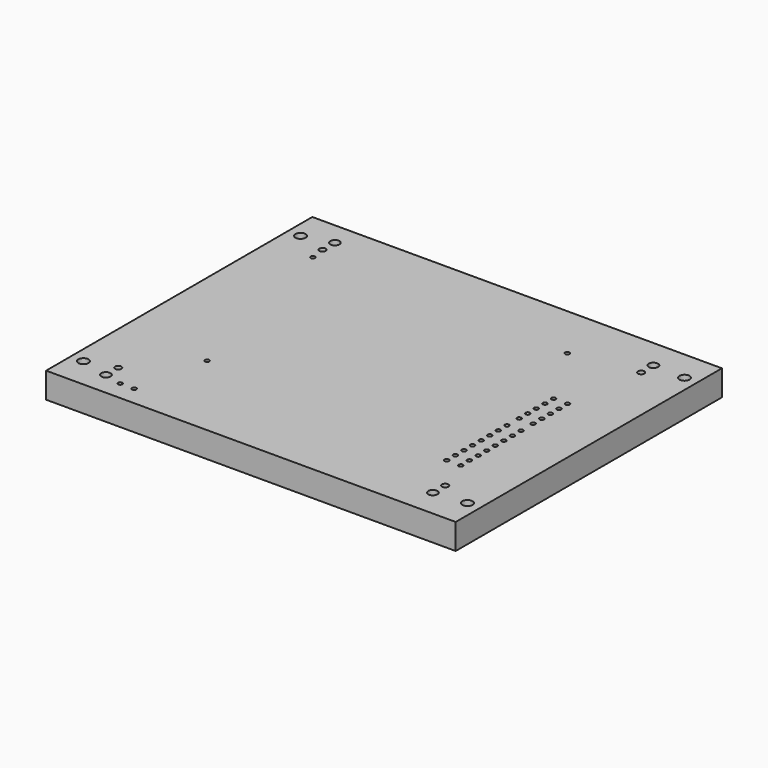
from build123d import *

# Parameters (mm, degrees)
F0_W     = 160
F0_H     = 130
F0_R     = 2
F0_R_2   = 1.8
F0_R_3   = 1.25
F0_R_4   = 0.85
F1_DEPTH = 10


with BuildPart() as f1:
    # F0 (on Top) → F1 (new body)
    with BuildSketch(Plane.XY):
        Rectangle(F0_W, F0_H)
        with Locations((-75, -53)):
            Circle(F0_R, mode=Mode.SUBTRACT)
        with Locations((-64.008, -55.753)):
            Circle(F0_R_2, mode=Mode.SUBTRACT)
        with Locations((-64.008, -49.753)):
            Circle(F0_R_3, mode=Mode.SUBTRACT)
        with Locations((-57.062, -57.54)):
            Circle(F0_R_4, mode=Mode.SUBTRACT)
        with Locations((-51.562, -57.54)):
            Circle(F0_R_4, mode=Mode.SUBTRACT)
        with Locations((-45.719, -29.21)):
            Circle(F0_R_4, mode=Mode.SUBTRACT)
        with Locations((62.484, -54.229)):
            Circle(F0_R_2, mode=Mode.SUBTRACT)
        with Locations((75, -53)):
            Circle(F0_R, mode=Mode.SUBTRACT)
        with Locations((52.412, -34.86099)):
            Circle(F0_R_4, mode=Mode.SUBTRACT)
        with Locations((57.912, -34.86099)):
            Circle(F0_R_4, mode=Mode.SUBTRACT)
        with Locations((62.484, -48.229)):
            Circle(F0_R_3, mode=Mode.SUBTRACT)
        with Locations((52.412, -30.66099)):
            Circle(F0_R_4, mode=Mode.SUBTRACT)
        with Locations((57.912, -30.66099)):
            Circle(F0_R_4, mode=Mode.SUBTRACT)
        with Locations((52.412, -26.46099)):
            Circle(F0_R_4, mode=Mode.SUBTRACT)
        with Locations((57.912, -26.46099)):
            Circle(F0_R_4, mode=Mode.SUBTRACT)
        with Locations((52.412, -22.26099)):
            Circle(F0_R_4, mode=Mode.SUBTRACT)
        with Locations((57.912, -22.26099)):
            Circle(F0_R_4, mode=Mode.SUBTRACT)
        with Locations((52.412, -18.06099)):
            Circle(F0_R_4, mode=Mode.SUBTRACT)
        with Locations((57.912, -18.06099)):
            Circle(F0_R_4, mode=Mode.SUBTRACT)
        with Locations((52.412, -13.86099)):
            Circle(F0_R_4, mode=Mode.SUBTRACT)
        with Locations((57.912, -13.86099)):
            Circle(F0_R_4, mode=Mode.SUBTRACT)
        with Locations((52.412, -9.66099)):
            Circle(F0_R_4, mode=Mode.SUBTRACT)
        with Locations((57.912, -9.66099)):
            Circle(F0_R_4, mode=Mode.SUBTRACT)
        with Locations((52.412, -5.46099)):
            Circle(F0_R_4, mode=Mode.SUBTRACT)
        with Locations((57.912, -5.46099)):
            Circle(F0_R_4, mode=Mode.SUBTRACT)
        with Locations((-63.246, 44.323)):
            Circle(F0_R_4, mode=Mode.SUBTRACT)
        with Locations((-75, 53)):
            Circle(F0_R, mode=Mode.SUBTRACT)
        with Locations((-64.008, 50.007)):
            Circle(F0_R_3, mode=Mode.SUBTRACT)
        with Locations((-64.008, 56.007)):
            Circle(F0_R_2, mode=Mode.SUBTRACT)
        with Locations((52.412, 0.472)):
            Circle(F0_R_4, mode=Mode.SUBTRACT)
        with Locations((57.912, 0.472)):
            Circle(F0_R_4, mode=Mode.SUBTRACT)
        with Locations((52.412, 4.672)):
            Circle(F0_R_4, mode=Mode.SUBTRACT)
        with Locations((57.912, 4.672)):
            Circle(F0_R_4, mode=Mode.SUBTRACT)
        with Locations((52.412, 8.872)):
            Circle(F0_R_4, mode=Mode.SUBTRACT)
        with Locations((57.912, 8.872)):
            Circle(F0_R_4, mode=Mode.SUBTRACT)
        with Locations((52.412, 13.072)):
            Circle(F0_R_4, mode=Mode.SUBTRACT)
        with Locations((57.912, 13.072)):
            Circle(F0_R_4, mode=Mode.SUBTRACT)
        with Locations((52.412, 17.272)):
            Circle(F0_R_4, mode=Mode.SUBTRACT)
        with Locations((57.912, 17.272)):
            Circle(F0_R_4, mode=Mode.SUBTRACT)
        with Locations((36.957, 43.307)):
            Circle(F0_R_4, mode=Mode.SUBTRACT)
        with Locations((62.484, 47.467)):
            Circle(F0_R_3, mode=Mode.SUBTRACT)
        with Locations((62.484, 53.467)):
            Circle(F0_R_2, mode=Mode.SUBTRACT)
        with Locations((75, 53)):
            Circle(F0_R, mode=Mode.SUBTRACT)
    extrude(amount=F1_DEPTH)


solid = f1.part
